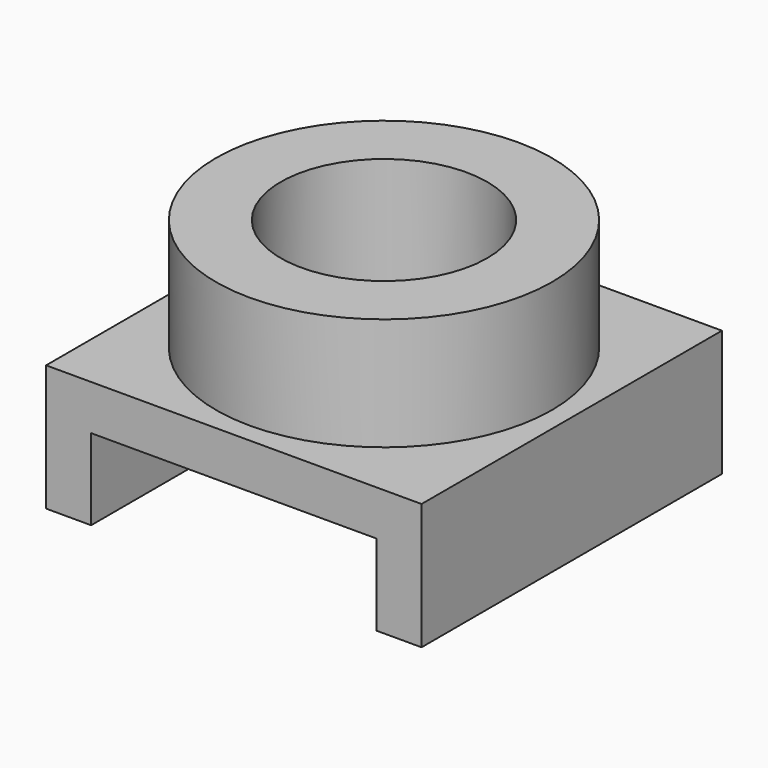
from build123d import *

# Parameters (mm, degrees)
F1_DEPTH = 127
F2_R     = 113.665
F2_R_2   = 69.85
F3_DEPTH = 76.2
F2_R_3   = 34.798
F4_DEPTH = 101.6


with BuildPart() as f1:
    # F0 (on Front) → F1 (new body, symmetric)
    with BuildSketch(Plane.XZ):
        Polygon((127, 0), (0, 0), (0, -30.48), (96.52, -30.48), (96.52, -85.344), (127, -85.344), align=None)
        Polygon((0, -30.48), (0, 0), (-127, 0), (-127, -85.344), (-96.52, -85.344), (-96.52, -30.48), align=None)
    extrude(amount=F1_DEPTH, both=True)

    # F2 (on face) → F3 (join)
    with BuildSketch(Plane.XY):
        Circle(F2_R)
        Circle(F2_R_2, mode=Mode.SUBTRACT)
    extrude(amount=F3_DEPTH)

    # F2 (on face) → F4 (cut)
    with BuildSketch(Plane.XY):
        Circle(F2_R_3)
    extrude(amount=-F4_DEPTH, mode=Mode.SUBTRACT)


solid = f1.part
